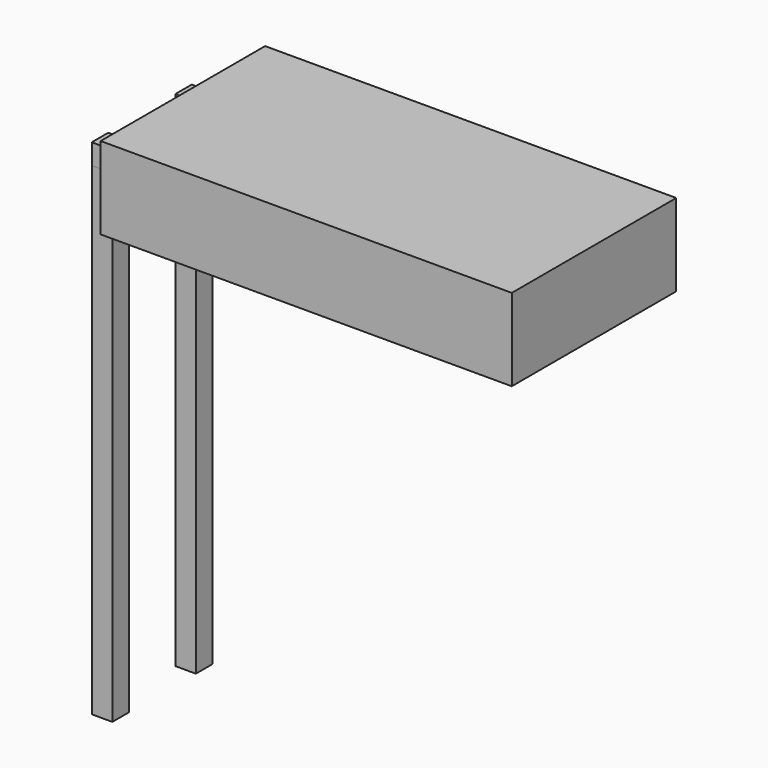
from build123d import *

# Parameters (mm, degrees)
BOX_W              = 10
BOX_H              = 5
BOX_DEPTH          = 2
BOX001_W           = 12
BOX001_H           = 0.5
BOX001_DEPTH       = 0.5
BOX001_PITCH_ANGLE = 90
BOX002_W           = 1
BOX002_H           = 0.5
BOX002_DEPTH       = 0.5


with BuildPart() as cube:
    # Box → Box (new body)
    with BuildSketch(Plane(origin=(-1, 0, 0), x_dir=(1, 0, 0), z_dir=(0, 0, 1))):
        with Locations((5, 2.5)):
            Rectangle(BOX_W, BOX_H)
    extrude(amount=BOX_DEPTH)


with BuildPart() as cube001:
    # Box001 → Box001 (new body)
    with BuildSketch(Plane.XY):
        with Locations((6, 0.25)):
            Rectangle(BOX001_W, BOX001_H)
    extrude(amount=BOX001_DEPTH)


with BuildPart() as cube001_1:
    # Box001 pitch: moved
    add(cube001.part.rotate(Axis((0, 0, 0), (0, 1, 0)), BOX001_PITCH_ANGLE))


with BuildPart() as cube001_2:
    # Box001 placement: moved
    add(cube001_1.part.moved(Location((-2, 0.98, 1))))


with BuildPart() as clone_of_cube001:
    # Clone base: copy of Cube001
    add(cube001_2.part)


with BuildPart() as clone_of_cube001_1:
    # Clone placement: moved
    add(clone_of_cube001.part.moved(Location((0, 2.54, 0))))


with BuildPart() as cube002:
    # Box002 → Box002 (new body)
    with BuildSketch(Plane(origin=(-2, 3.52, 0.75), x_dir=(1, 0, 0), z_dir=(0, 0, 1))):
        with Locations((0.5, 0.25)):
            Rectangle(BOX002_W, BOX002_H)
    extrude(amount=BOX002_DEPTH)


with BuildPart() as clone_of_cube002:
    # Clone001 base: copy of Cube002
    add(cube002.part)


with BuildPart() as clone_of_cube002_1:
    # Clone001 placement: moved
    add(clone_of_cube002.part.moved(Location((0, -2.54, 0))))


solid = Compound([cube.part, cube001_2.part, clone_of_cube001_1.part, cube002.part, clone_of_cube002_1.part])
